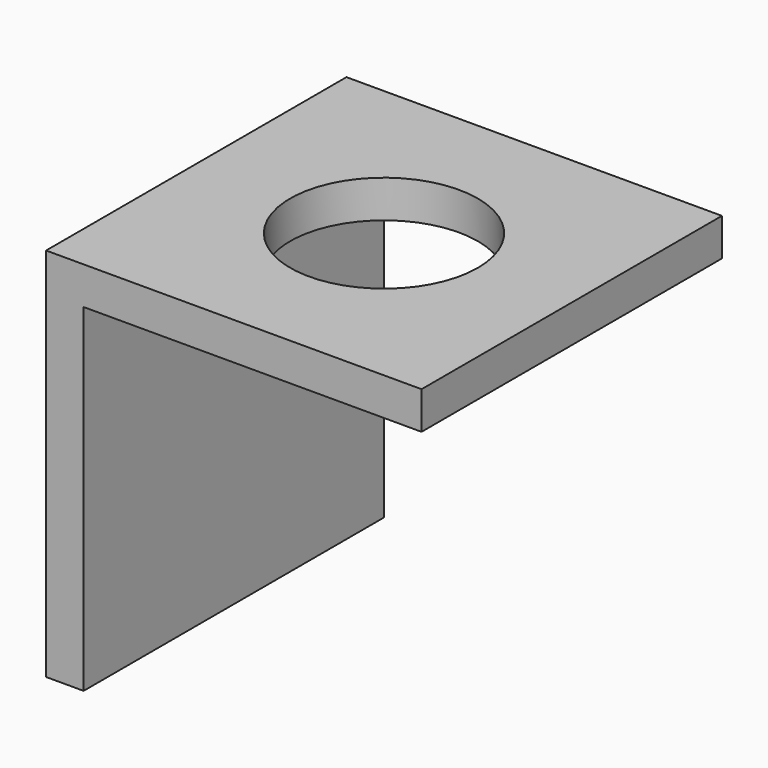
from build123d import *

# Parameters (mm, degrees)
F1_DEPTH = 6.35
F2_R     = 3.175
F3_DEPTH = 25.4


with BuildPart() as f1:
    # F0 (on Front) → F1 (new body, symmetric)
    with BuildSketch(Plane.XZ):
        Polygon((0, 12.7), (0, 0), (1.27, 0), (1.27, 11.43), (12.7, 11.43), (12.7, 12.7), align=None)
    extrude(amount=F1_DEPTH, both=True)

    # F2 (on face) → F3 (cut)
    with BuildSketch(Plane.XY.offset(12.7)):
        with Locations((6.35, 0)):
            Circle(F2_R)
    extrude(amount=-F3_DEPTH, mode=Mode.SUBTRACT)


solid = f1.part
